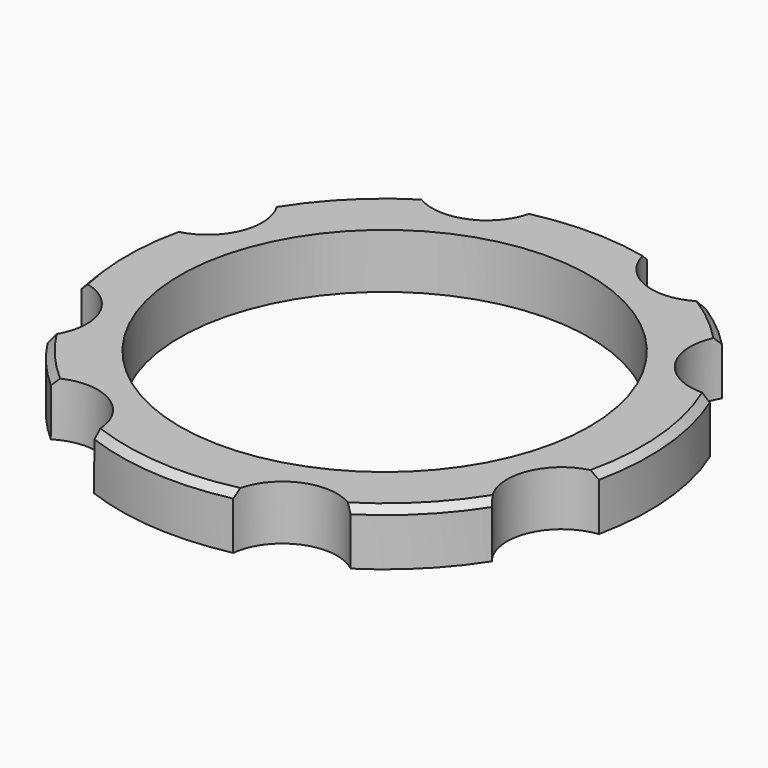
from build123d import *

# Parameters (mm, degrees)
CYLINDER692_R               = 8
CYLINDER692_DEPTH           = 25
CYLINDER693_R               = 8
CYLINDER693_DEPTH           = 25
CYLINDER693_PLACEMENT_ANGLE = 225
CYLINDER695_R               = 8
CYLINDER695_DEPTH           = 25
CYLINDER694_R               = 8
CYLINDER694_DEPTH           = 25
CYLINDER694_PLACEMENT_ANGLE = 145
CYLINDER696_R               = 8
CYLINDER696_DEPTH           = 25
CYLINDER697_R               = 8
CYLINDER697_DEPTH           = 25
CYLINDER697_PLACEMENT_ANGLE = 45
CYLINDER690_R               = 8
CYLINDER690_DEPTH           = 25
CYLINDER690_ROLL_ANGLE      = 0.146073
CYLINDER690_PITCH_ANGLE     = 1.079101
CYLINDER690_PLACEMENT_ANGLE = -9.939308
CYLINDER691_R               = 8
CYLINDER691_DEPTH           = 25
CYLINDER691_PLACEMENT_ANGLE = 45
TUBE075_R                   = 38.75
TUBE075_R_2                 = 30
TUBE075_DEPTH               = 8
CHAMFER001_SIZE             = 1


with BuildPart() as obj1:
    # Cylinder692 → Cylinder692 (new body)
    with BuildSketch(Plane(origin=(-38.798949, 16.072537, 43), x_dir=(0, -1, 0), z_dir=(0, 0, 1))):
        Circle(CYLINDER692_R)
    extrude(amount=CYLINDER692_DEPTH)


with BuildPart() as obj2:
    # Cylinder693 → Cylinder693 (new body)
    with BuildSketch(Plane.XY):
        Circle(CYLINDER693_R)
    extrude(amount=CYLINDER693_DEPTH)


with BuildPart() as obj2_1:
    # Cylinder693 placement: moved
    add(obj2.part.moved(Location((-16.07, 38.8, 43))).rotate(Axis((-16.07, 38.8, 43), (0, 0, 1)), CYLINDER693_PLACEMENT_ANGLE))


with BuildPart() as obj3:
    # Cylinder695 → Cylinder695 (new body)
    with BuildSketch(Plane(origin=(16.072537, 38.798949, 43), x_dir=(-1, 0, 0), z_dir=(0, 0, 1))):
        Circle(CYLINDER695_R)
    extrude(amount=CYLINDER695_DEPTH)


with BuildPart() as obj4:
    # Cylinder694 → Cylinder694 (new body)
    with BuildSketch(Plane.XY):
        Circle(CYLINDER694_R)
    extrude(amount=CYLINDER694_DEPTH)


with BuildPart() as obj4_1:
    # Cylinder694 placement: moved
    add(obj4.part.moved(Location((34.63, 22.64, 43.6))).rotate(Axis((34.63, 22.64, 43.6), (0, 0, 1)), CYLINDER694_PLACEMENT_ANGLE))


with BuildPart() as obj5:
    # Cylinder696 → Cylinder696 (new body)
    with BuildSketch(Plane(origin=(38.798949, -16.072537, 43), x_dir=(0, 1, 0), z_dir=(0, 0, 1))):
        Circle(CYLINDER696_R)
    extrude(amount=CYLINDER696_DEPTH)


with BuildPart() as obj6:
    # Cylinder697 → Cylinder697 (new body)
    with BuildSketch(Plane.XY):
        Circle(CYLINDER697_R)
    extrude(amount=CYLINDER697_DEPTH)


with BuildPart() as obj6_1:
    # Cylinder697 placement: moved
    add(obj6.part.moved(Location((16.07, -38.8, 43))).rotate(Axis((16.07, -38.8, 43), (0, 0, 1)), CYLINDER697_PLACEMENT_ANGLE))


with BuildPart() as obj7:
    # Cylinder690 → Cylinder690 (new body)
    with BuildSketch(Plane.XY):
        Circle(CYLINDER690_R)
    extrude(amount=CYLINDER690_DEPTH)


with BuildPart() as obj7_1:
    # Cylinder690 roll: moved
    add(obj7.part.rotate(Axis((0, 0, 0), (1, 0, 0)), CYLINDER690_ROLL_ANGLE))


with BuildPart() as obj7_2:
    # Cylinder690 pitch: moved
    add(obj7_1.part.rotate(Axis((0, 0, 0), (0, 1, 0)), CYLINDER690_PITCH_ANGLE))


with BuildPart() as obj7_3:
    # Cylinder690 placement: moved
    add(obj7_2.part.moved(Location((-21.748471, -35.690226, 43.196026))).rotate(Axis((-21.748471, -35.690226, 43.196026), (0, 0, 1)), CYLINDER690_PLACEMENT_ANGLE))


with BuildPart() as compound696:
    # Cylinder691 → Cylinder691 (new body)
    with BuildSketch(Plane.XY):
        Circle(CYLINDER691_R)
    extrude(amount=CYLINDER691_DEPTH)


with BuildPart() as compound696_1:
    # Cylinder691 placement: moved
    add(compound696.part.moved(Location((-38.8, -16.07, 43))).rotate(Axis((-38.8, -16.07, 43), (0, 0, -1)), CYLINDER691_PLACEMENT_ANGLE))

    # Compound696: union obj1, obj2, obj3, obj4, obj5, obj6, obj7
    add(obj1.part)
    add(obj2_1.part)
    add(obj3.part)
    add(obj4_1.part)
    add(obj5.part)
    add(obj6_1.part)
    add(obj7_3.part)


with BuildPart() as compound696_2:
    # Compound696 placement: moved
    add(compound696_1.part.moved(Location((0, 0, 3))))


with BuildPart() as chamfer001:
    # Tube075 → Tube075 (new body)
    with BuildSketch(Plane.XY.offset(58)):
        Circle(TUBE075_R)
        Circle(TUBE075_R_2, mode=Mode.SUBTRACT)
    extrude(amount=TUBE075_DEPTH)

    # Cut317: cut Compound696
    add(compound696_2.part, mode=Mode.SUBTRACT)

    # Chamfer001
    chamfer001_edges = [chamfer001.edges().sort_by_distance(p)[0] for p in [
        (38.534079, -4.085006, 66),
        (38.01562, 7.508338, 66),
        (27.399492, -27.401284, 66),
        (-2.751597, -38.652183, 66),
        (-29.370607, -25.277064, 66),
        (-38.75, 0.001267, 66),
        (-27.399492, 27.401284, 66),
        (0.001267, 38.75, 66),
        (24.6207, 29.922961, 66),
    ]]
    chamfer(chamfer001_edges, length=CHAMFER001_SIZE)


solid = chamfer001.part
